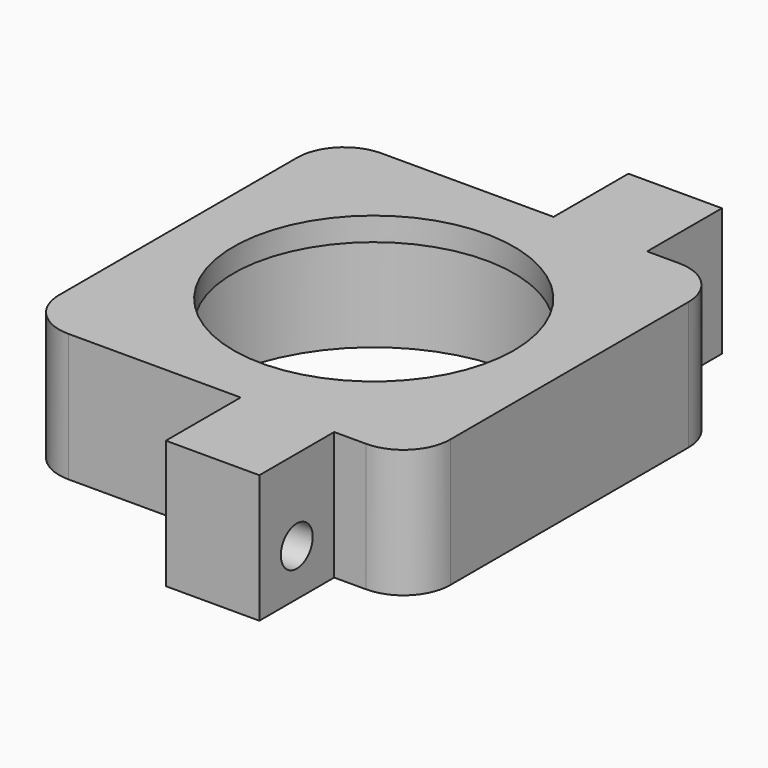
from build123d import *

# Parameters (mm, degrees)
F0_W      = 26.555576
F0_H      = 26.555576
F0_R      = 9.525
F1_DEPTH  = 8.6995
F2_R      = 3.175
F3_R      = 11.1125
F4_DEPTH  = 7.112
F5_R      = 1.35255
F6_DEPTH  = 4.7625
F7_W      = 6.35
F7_H      = 6.35
F8_DEPTH  = 8.6995
F9_R      = 1.35255
F10_DEPTH = 4.7625


with BuildPart() as f1:
    # F0 (on Top) → F1 (new body)
    with BuildSketch(Plane.XY):
        Rectangle(F0_W, F0_H)
        Circle(F0_R, mode=Mode.SUBTRACT)
    extrude(amount=F1_DEPTH)

    # F2
    f2_edges = [f1.edges().sort_by_distance(p)[0] for p in [
        (-13.277788, 13.277788, 4.34975),
        (-13.277788, -13.277788, 4.34975),
        (13.277788, -13.277788, 4.34975),
        (13.277788, 13.277788, 4.34975),
    ]]
    fillet(f2_edges, radius=F2_R)

    # F3 (on face) → F4 (cut)
    with BuildSketch(Plane(origin=(0, 0, 0), x_dir=(1, 0, 0), z_dir=(0, 0, -1))):
        Circle(F3_R)
    extrude(amount=-F4_DEPTH, mode=Mode.SUBTRACT)

    # F5 (on face) → F6 (cut)
    with BuildSketch(Plane(origin=(0, 0, 0), x_dir=(1, 0, 0), z_dir=(0, 0, -1))):
        with Locations((10.102788, 10.102788)):
            Circle(F5_R)
        with Locations((-10.102788, 10.102788)):
            Circle(F5_R)
        with Locations((-10.102788, -10.102788)):
            Circle(F5_R)
        with Locations((10.102788, -10.102788)):
            Circle(F5_R)
    extrude(amount=-F6_DEPTH, mode=Mode.SUBTRACT)

    # F7 (on face) → F8 (join, through all)
    with BuildSketch(Plane.XY.offset(8.6995)):
        with Locations((4.7625, -16.452788)):
            Rectangle(F7_W, F7_H)
        with Locations((4.7625, 16.452788)):
            Rectangle(F7_W, F7_H)
    extrude(amount=-F8_DEPTH)

    # F9 (on face) → F10 (cut)
    with BuildSketch(Plane.YZ.offset(7.9375)):
        with Locations((16.452788, 3.175)):
            Circle(F9_R)
        with Locations((-16.452788, 3.175)):
            Circle(F9_R)
    extrude(amount=-F10_DEPTH, mode=Mode.SUBTRACT)


solid = f1.part
